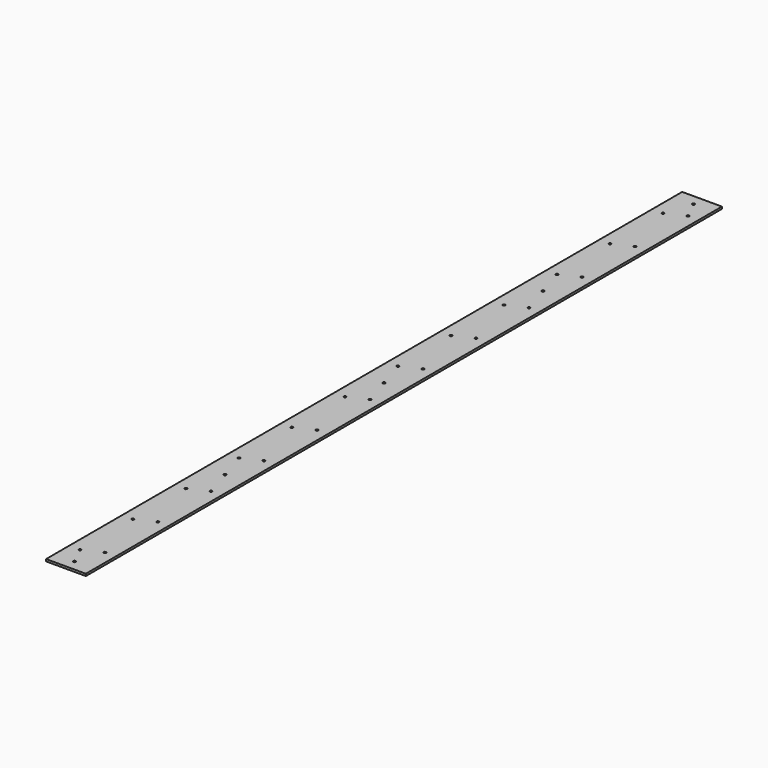
from build123d import *

# Parameters (mm, degrees)
F0_W     = 75
F0_H     = 1500
F0_R     = 2.25
F1_DEPTH = 4
F2_D     = 5


with BuildPart() as f1:
    # F0 (on Top) → F1 (new body)
    with BuildSketch(Plane.XY):
        Rectangle(F0_W, F0_H)
        with Locations((-17.1, -695.81)):
            Circle(F0_R, mode=Mode.SUBTRACT)
        with Locations((-17.1, -570.81)):
            Circle(F0_R, mode=Mode.SUBTRACT)
        with Locations((-17.1, -445.81)):
            Circle(F0_R, mode=Mode.SUBTRACT)
        with Locations((-17.1, -320.81)):
            Circle(F0_R, mode=Mode.SUBTRACT)
        with Locations((-17.1, -195.81)):
            Circle(F0_R, mode=Mode.SUBTRACT)
        with Locations((-17.1, -70.81)):
            Circle(F0_R, mode=Mode.SUBTRACT)
        with Locations((17.1, -679.44)):
            Circle(F0_R, mode=Mode.SUBTRACT)
        with Locations((17.1, -554.44)):
            Circle(F0_R, mode=Mode.SUBTRACT)
        with Locations((17.1, -429.44)):
            Circle(F0_R, mode=Mode.SUBTRACT)
        with Locations((17.1, -304.44)):
            Circle(F0_R, mode=Mode.SUBTRACT)
        with Locations((17.1, -179.44)):
            Circle(F0_R, mode=Mode.SUBTRACT)
        with Locations((17.1, -54.44)):
            Circle(F0_R, mode=Mode.SUBTRACT)
        with Locations((-17.1, 54.19)):
            Circle(F0_R, mode=Mode.SUBTRACT)
        with Locations((-17.1, 179.19)):
            Circle(F0_R, mode=Mode.SUBTRACT)
        with Locations((-17.1, 304.19)):
            Circle(F0_R, mode=Mode.SUBTRACT)
        with Locations((-17.1, 429.19)):
            Circle(F0_R, mode=Mode.SUBTRACT)
        with Locations((-17.1, 554.19)):
            Circle(F0_R, mode=Mode.SUBTRACT)
        with Locations((-17.1, 679.19)):
            Circle(F0_R, mode=Mode.SUBTRACT)
        with Locations((17.1, 70.56)):
            Circle(F0_R, mode=Mode.SUBTRACT)
        with Locations((17.1, 195.56)):
            Circle(F0_R, mode=Mode.SUBTRACT)
        with Locations((17.1, 320.56)):
            Circle(F0_R, mode=Mode.SUBTRACT)
        with Locations((17.1, 445.56)):
            Circle(F0_R, mode=Mode.SUBTRACT)
        with Locations((17.1, 570.56)):
            Circle(F0_R, mode=Mode.SUBTRACT)
        with Locations((17.1, 695.56)):
            Circle(F0_R, mode=Mode.SUBTRACT)
    extrude(amount=F1_DEPTH)

    # F2 (through all)
    with Locations(Plane(origin=(0, 0, 0), x_dir=(1, 0, 0), z_dir=(0, 0, -1))):
        with Locations((0, 730), (0, 375), (0, 0), (0, -375), (0, -730)):
            Hole(F2_D / 2)


solid = f1.part
